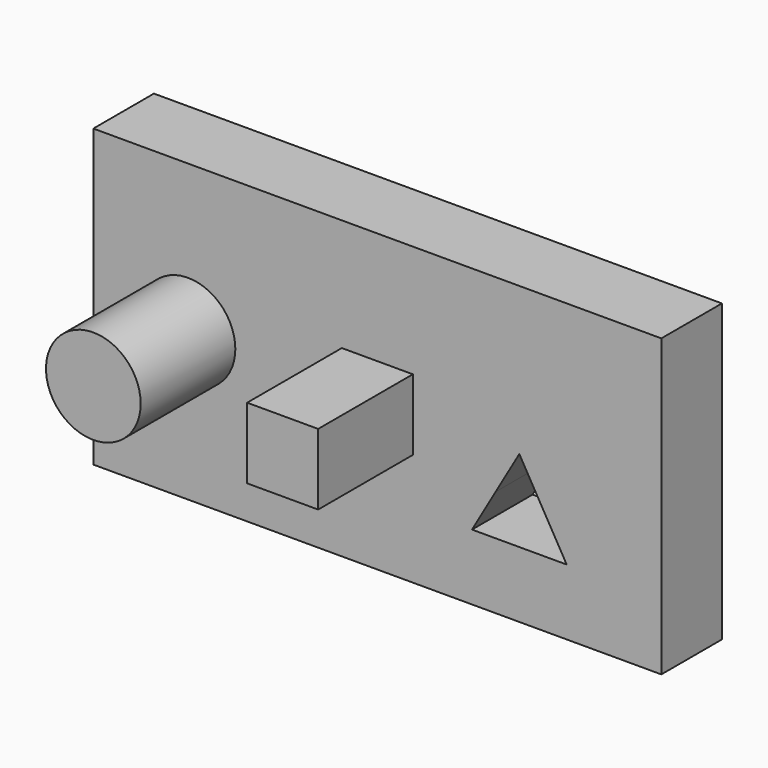
from build123d import *

# Parameters (mm, degrees)
F0_R     = 12.7
F0_W     = 19.05
F0_H     = 19.05
F1_DEPTH = 20.32
F2_DEPTH = 52.07
F3_W     = 19.05
F3_H     = 19.05
F4_DEPTH = 31.75


with BuildPart() as f1:
    # F0 (on Front) → F1 (new body)
    with BuildSketch(Plane.XZ):
        Polygon((-107.95, 39.6875), (-107.95, -39.6875), (0, -39.6875), (44.45, -39.6875), (44.45, 39.6875), align=None)
        Polygon((19.05, -21.997045), (0, -21.997045), (-6.35, -21.997045), (0, -10.998523), (6.35, 0), align=None, mode=Mode.SUBTRACT)
        with Locations((-82.55, 0)):
            Circle(F0_R, mode=Mode.SUBTRACT)
        with Locations((-31.75, 0)):
            Rectangle(F0_W, F0_H, mode=Mode.SUBTRACT)
    extrude(amount=F1_DEPTH)


with BuildPart() as f2:
    # F0 (on Front) → F2 (new body)
    with BuildSketch(Plane.XZ):
        with Locations((-82.55, 0)):
            Circle(F0_R)
    extrude(amount=F2_DEPTH)


with BuildPart() as f4:
    # F3 (on face) → F4 (new body)
    with BuildSketch(Plane.XZ.offset(20.32)):
        with Locations((-31.75, 0)):
            Rectangle(F3_W, F3_H)
    extrude(amount=F4_DEPTH)


solid = Compound([f1.part, f2.part, f4.part])
